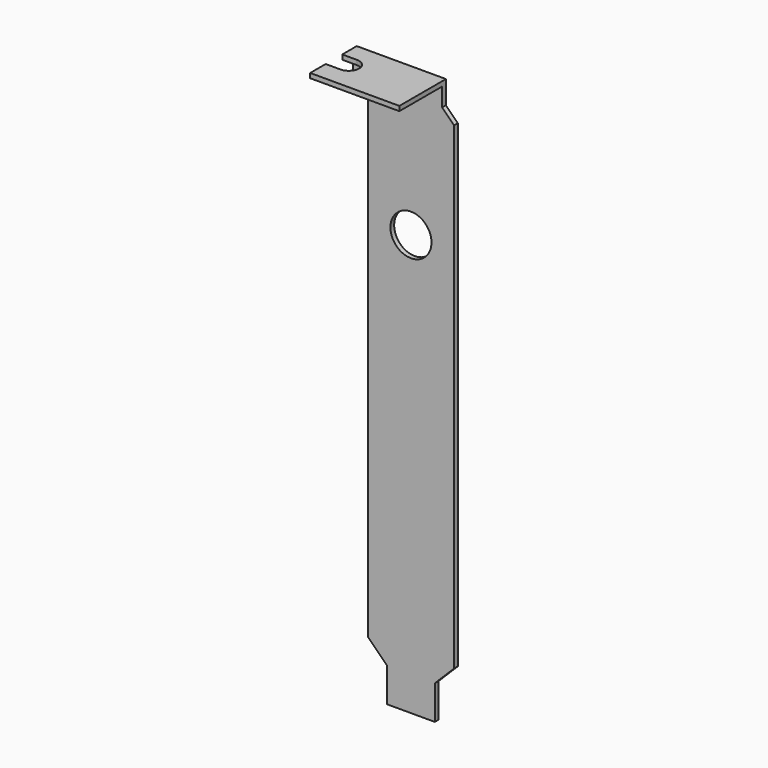
from build123d import *

# Parameters (mm, degrees)
F1_R     = 4.3841232155
F2_DEPTH = 1
F4_DEPTH = 1


with BuildPart() as f2:
    # F1 (on Front) → F2 (new body)
    with BuildSketch(Plane.XZ):
        Polygon((-5.095, 7.27), (-5.095, 0), (5.095, 0), (5.095, 7.27), (9.21, 11.385), (9.21, 113.54), (6.67, 116.08), (6.67, 120.02), (6.67, 121.02), (-12.38, 121.02), (-12.38, 120.02), (-12.38, 117.1), (-9.21, 113.93), (-9.21, 11.385), align=None)
        with Locations((0, 89.9363011122)):
            Circle(F1_R, mode=Mode.SUBTRACT)
    extrude(amount=-F2_DEPTH)

    # F3 (on face) → F4 (join)
    with BuildSketch(Plane.XY.offset(121.02)):
        with BuildLine():
            Line((6.67, 0), (-12.38, 0))
            Line((-12.38, 0), (-12.38, -2.87))
            Line((-12.38, -2.87), (-9.21, -2.87))
            ThreePointArc((-9.21, -2.87), (-7, -5.08), (-9.21, -7.29))
            Line((-9.21, -7.29), (-12.38, -7.29))
            Line((-12.38, -7.29), (-12.38, -11.43))
            Line((-12.38, -11.43), (6.67, -11.43))
            Line((6.67, -11.43), (6.67, 0))
        make_face()
    extrude(amount=-F4_DEPTH)


solid = f2.part
